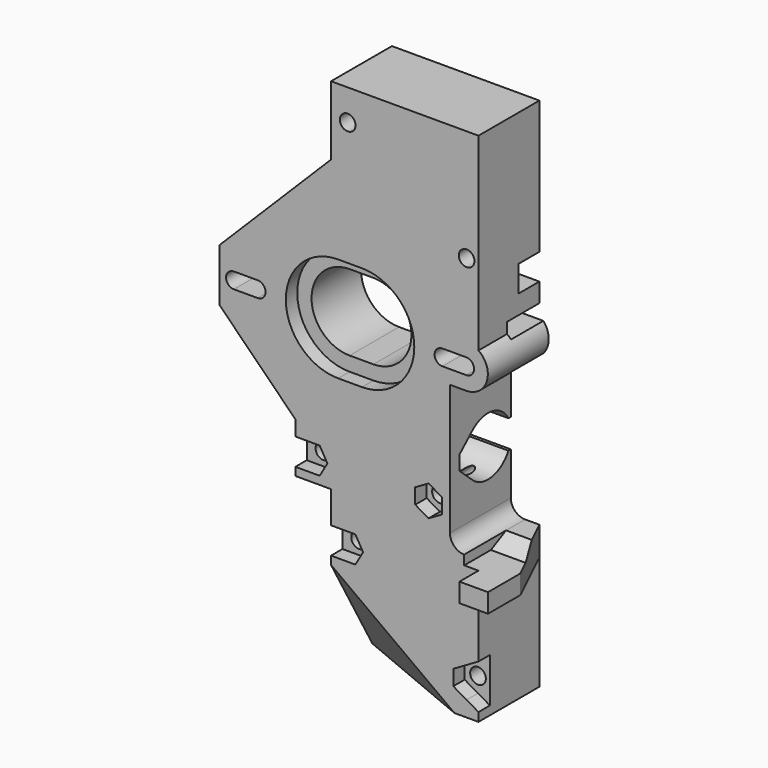
from build123d import *

# Parameters (mm, degrees)
SKETCH001_R     = 1.65
PAD_DEPTH       = 21
POCKET_DEPTH    = 3
POCKET001_DEPTH = 5
POCKET002_DEPTH = 62.9786
SKETCH005_W     = 30
SKETCH005_H     = 3
POCKET003_DEPTH = 8.5
POCKET004_DEPTH = 32.5
POCKET005_DEPTH = 6
POCKET006_DEPTH = 9
POCKET007_DEPTH = 5.5


with BuildPart() as part:
    # Sketch001 → Pad (new body)
    with BuildSketch(Plane.XZ):
        with BuildLine():
            ThreePointArc((21.92031, -4.55), (26.265193, -1.350737), (24.5, 3.748026))
            Line((24.5, 43.5), (24.5, 3.748026))
            Line((-6.5, 43.5), (24.5, 43.5))
            Line((-6.5, 29), (-6.5, 43.5))
            Line((-30, 5.5), (-6.5, 29))
            Line((-30, 5.5), (-30, -5.5))
            Line((-14, -21.5), (-30, -5.5))
            Line((-14, -32), (-14, -21.5))
            Line((-6.5, -32), (-14, -32))
            Line((-6.5, -65), (-6.5, -32))
            Line((24.5, -65), (-6.5, -65))
            Line((24.5, -41), (24.5, -65))
            Line((24.5, -41), (30.5, -41))
            Line((30.5, -41), (30.5, -35))
            Line((21.5, -35), (30.5, -35))
            ThreePointArc((18.5, -32), (19.37868, -34.12132), (21.5, -35))
            Line((18.5, -4.55), (18.5, -32))
            Line((18.5, -4.55), (21.92031, -4.55))
        make_face()
        with Locations((22, 20)):
            Circle(SKETCH001_R, mode=Mode.SUBTRACT)
        with Locations((-3, 37)):
            Circle(SKETCH001_R, mode=Mode.SUBTRACT)
        with Locations((-10.5, -27.5)):
            Circle(SKETCH001_R, mode=Mode.SUBTRACT)
        with Locations((14, -27.5)):
            Circle(SKETCH001_R, mode=Mode.SUBTRACT)
        with Locations((-3, -41.5)):
            Circle(SKETCH001_R, mode=Mode.SUBTRACT)
        with Locations((22, -58.5)):
            Circle(SKETCH001_R, mode=Mode.SUBTRACT)
        with BuildLine():
            ThreePointArc((0, -8), (8, 0), (0, 8))
            Line((0, 8), (-5, 8))
            ThreePointArc((-5, 8), (-13, 0), (-5, -8))
            Line((0, -8), (-5, -8))
        make_face(mode=Mode.SUBTRACT)
        with BuildLine():
            ThreePointArc((16.92031, 1.65), (15.27031, 0), (16.92031, -1.65))
            Line((16.92031, -1.65), (21.92031, -1.65))
            ThreePointArc((21.92031, -1.65), (23.57031, 0), (21.92031, 1.65))
            Line((16.92031, 1.65), (21.92031, 1.65))
        make_face(mode=Mode.SUBTRACT)
        with BuildLine():
            ThreePointArc((-26.92031, 1.65), (-28.57031, 0), (-26.92031, -1.65))
            Line((-26.92031, -1.65), (-21.92031, -1.65))
            ThreePointArc((-21.92031, -1.65), (-20.27031, 0), (-21.92031, 1.65))
            Line((-26.92031, 1.65), (-21.92031, 1.65))
        make_face(mode=Mode.SUBTRACT)
    extrude(amount=PAD_DEPTH)

    # Sketch002 → Pocket (cut)
    with BuildSketch(Plane.XZ.offset(16)):
        Polygon((-8.883419, -24.7), (-12.116581, -24.7), (-14.266838, -24.7), (-14.266838, -30.3), (-12.116581, -30.3), (-8.883419, -30.3), (-7.266838, -27.5), align=None)
        Polygon((14, -24.266838), (11.2, -25.883419), (11.2, -29.116581), (14, -30.733162), (16.8, -29.116581), (16.8, -25.883419), align=None)
        Polygon((22, -55.266838), (19.2, -56.883419), (19.2, -60.116581), (22, -61.733162), (26.2, -64.158033), (26.2, -52.841967), align=None)
        Polygon((-1.383419, -38.7), (-4.616581, -38.7), (-6.766838, -38.7), (-6.766838, -44.3), (-4.616581, -44.3), (-1.383419, -44.3), (0.233162, -41.5), align=None)
        with BuildLine():
            ThreePointArc((0, -11), (11, 0), (0, 11))
            Line((0, 11), (-5, 11))
            ThreePointArc((-5, 11), (-16, 0), (-5, -11))
            Line((0, -11), (-5, -11))
        make_face()
    extrude(amount=-POCKET_DEPTH, mode=Mode.SUBTRACT)

    # Sketch003 → Pocket001 (cut)
    with BuildSketch(Plane.XZ.offset(21)):
        with BuildLine():
            ThreePointArc((21.92031, -4.55), (26.265193, -1.350737), (24.5, 3.748026))
            Line((24.5, 43.5), (24.5, 3.748026))
            Line((-6.5, 43.5), (24.5, 43.5))
            Line((-6.5, 29), (-6.5, 43.5))
            Line((-30, 5.5), (-6.5, 29))
            Line((-30, 5.5), (-30, -5.5))
            Line((-14, -21.5), (-30, -5.5))
            Line((-14, -32), (-14, -21.5))
            Line((-6.5, -32), (-14, -32))
            Line((-6.5, -65), (-6.5, -32))
            Line((24.5, -65), (-6.5, -65))
            Line((24.5, -35), (24.5, -65))
            Line((21.5, -35), (24.5, -35))
            ThreePointArc((18.5, -32), (19.37868, -34.12132), (21.5, -35))
            Line((18.5, -4.55), (18.5, -32))
            Line((18.5, -4.55), (21.92031, -4.55))
        make_face()
    extrude(amount=-POCKET001_DEPTH, mode=Mode.SUBTRACT)

    # Sketch004 → Pocket002 (cut, through all)
    with BuildSketch(Plane(origin=(0, 0, 0), x_dir=(0.590042, 0, 0.807372), z_dir=(-0.807372, 0, 0.590042))):
        Polygon((-56.5, -5), (-56.5, -16), (-41, -16), align=None)
    extrude(amount=-POCKET002_DEPTH, mode=Mode.SUBTRACT)

    # Sketch005 (on Face2 of Pocket002) → Pocket003 (cut)
    with BuildSketch(Plane(origin=(0, 0, 0), x_dir=(1, 0, 0), z_dir=(0, 1, 0))):
        with Locations((15, 4.5)):
            Rectangle(SKETCH005_W, SKETCH005_H)
        with Locations((15, -4.5)):
            Rectangle(SKETCH005_W, SKETCH005_H)
    extrude(amount=-POCKET003_DEPTH, mode=Mode.SUBTRACT)

    # Sketch006 (on Face5 of Pocket003) → Pocket004 (cut)
    with BuildSketch(Plane(origin=(18.5, 0, 0), x_dir=(0, 0, 1), z_dir=(1, 0, 0))):
        with BuildLine():
            ThreePointArc((-24.555141, 10.131972), (-26.069229, 5.006539), (-23, 0.631341))
            Line((-23, 0.631341), (-23, -1))
            Line((-23, -1), (-17, -1))
            Line((-17, -1), (-17, 0.631341))
            ThreePointArc((-17, 0.631341), (-13.930771, 5.006539), (-15.444859, 10.131972))
            Line((-18.5, 13.5), (-15.444859, 10.131972))
            Line((-21.5, 13.5), (-18.5, 13.5))
            Line((-24.555141, 10.131972), (-21.5, 13.5))
        make_face()
    extrude(amount=-POCKET004_DEPTH, mode=Mode.SUBTRACT)

    # Sketch007 (on Face79 of Pocket004) → Pocket005 (cut)
    with BuildSketch(Plane(origin=(0, 0, -41), x_dir=(1, 0, 0), z_dir=(0, 0, -1))):
        Polygon((24.5, 0), (30.5, 12.5), (30.5, 0), align=None)
    extrude(amount=-POCKET005_DEPTH, mode=Mode.SUBTRACT)

    # Sketch008 (on Face78 of Pocket005) → Pocket006 (cut)
    with BuildSketch(Plane(origin=(30.5, 0, 0), x_dir=(0, 0, 1), z_dir=(1, 0, 0))):
        Polygon((-37, 21), (-37, 9), (-35, 5), (-35, 21), align=None)
    extrude(amount=-POCKET006_DEPTH, mode=Mode.SUBTRACT)

    # Sketch009 → Pocket007 (cut)
    with BuildSketch(Plane.XY.offset(10)):
        Polygon((19, 0), (24.5, -5.5), (24.5, 0), align=None)
    extrude(amount=POCKET007_DEPTH, mode=Mode.SUBTRACT)


solid = part.part
